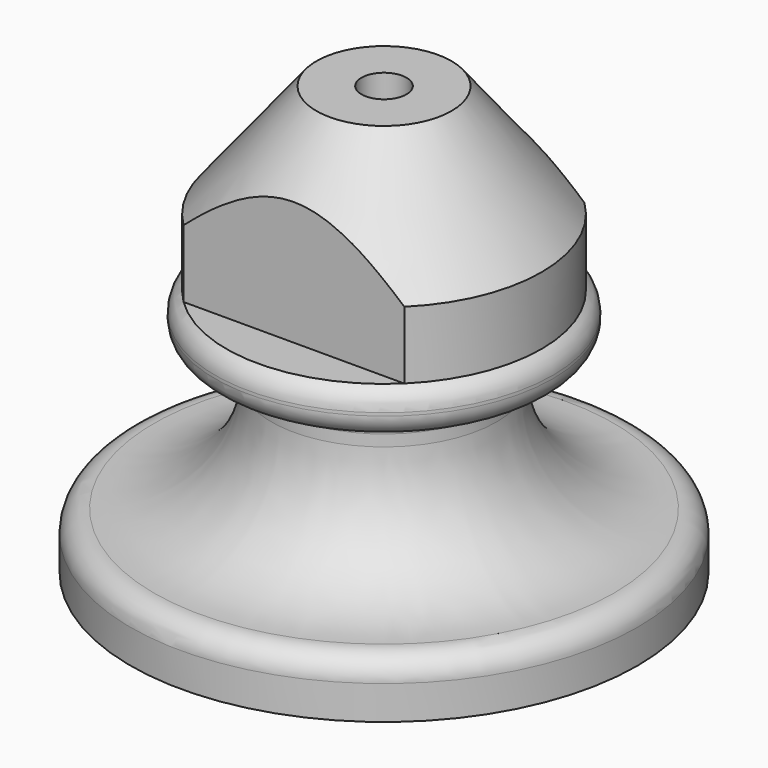
from build123d import *

# Parameters (mm, degrees)
F2_R     = 2
F4_DEPTH = 16


with BuildPart() as f1:
    # F0 (on Front) → F1 (revolve)
    with BuildSketch(Plane.XZ):
        with BuildLine():
            Line((19.5, 2.000935), (19.5, 0))
            Line((19.5, 0), (22.5, 0))
            Line((22.5, 0), (22.5, 3.001737))
            ThreePointArc((22.5, 3.001737), (21.884437, 4.445113), (20.416667, 5))
            ThreePointArc((20.416667, 5), (13.077813, 7.774437), (10, 14.991316))
            Line((10, 14.991316), (10, 16))
            ThreePointArc((10, 16), (10.585786, 17.414214), (12, 18))
            Line((12, 18), (13, 18))
            ThreePointArc((13, 18), (14.414214, 18.585786), (15, 20))
            Line((15, 20), (15, 20.267949))
            ThreePointArc((15, 20.267949), (14.732051, 21.267949), (14, 22))
            Line((14, 22), (14, 28))
            Line((14, 28), (6, 38))
            Line((6, 38), (2, 38))
            Line((2, 38), (2, 25))
            Line((2, 25), (5, 25))
            ThreePointArc((5, 25), (6.414214, 24.414214), (7, 23))
            Line((7, 23), (7, 14.991316))
            ThreePointArc((7, 14.991316), (10.632503, 5.977437), (19.5, 2.000935))
        make_face()
    revolve(axis=Axis((0, 0, -15.109697), (0, 0, -1)))

    # F2
    f2_edges = [f1.edges().sort_by_distance(p)[0] for p in [
        (-19.5, 0, 2.000935),
        (-5, 0, 25),
    ]]
    fillet(f2_edges, radius=F2_R)

    # F3 (on face) → F4 (cut)
    with BuildSketch(Plane.XY.offset(38)):
        with BuildLine():
            Line((-9.797959, 10), (9.797959, 10))
            ThreePointArc((9.797959, 10), (0, 14), (-9.797959, 10))
        make_face()
        with BuildLine():
            ThreePointArc((-9.797959, -10), (0, -14), (9.797959, -10))
            Line((9.797959, -10), (-9.797959, -10))
        make_face()
    extrude(amount=-F4_DEPTH, mode=Mode.SUBTRACT)


solid = f1.part
